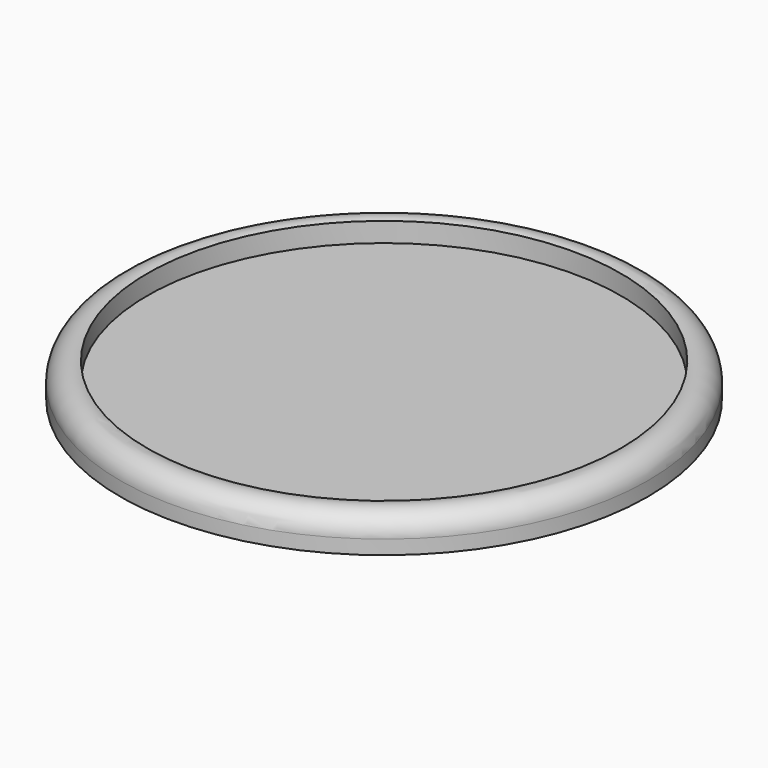
from build123d import *


with BuildPart() as f1:
    # F0 (on Front) → F1 (revolve)
    with BuildSketch(Plane.XZ):
        with BuildLine():
            Line((0, 3.910263), (0, 0))
            Line((0, 0), (73.091842, 0))
            Line((73.091842, 0), (73.091842, 3.910263))
            ThreePointArc((73.091842, 3.910263), (70.718645, 8.5433), (65.572105, 9.324474))
            Line((65.572105, 9.324474), (65.572105, 3.910263))
            Line((65.572105, 3.910263), (0, 3.910263))
        make_face()
    revolve(axis=Axis((0, 0, 1.955132), (0, 0, -1)))


solid = f1.part
